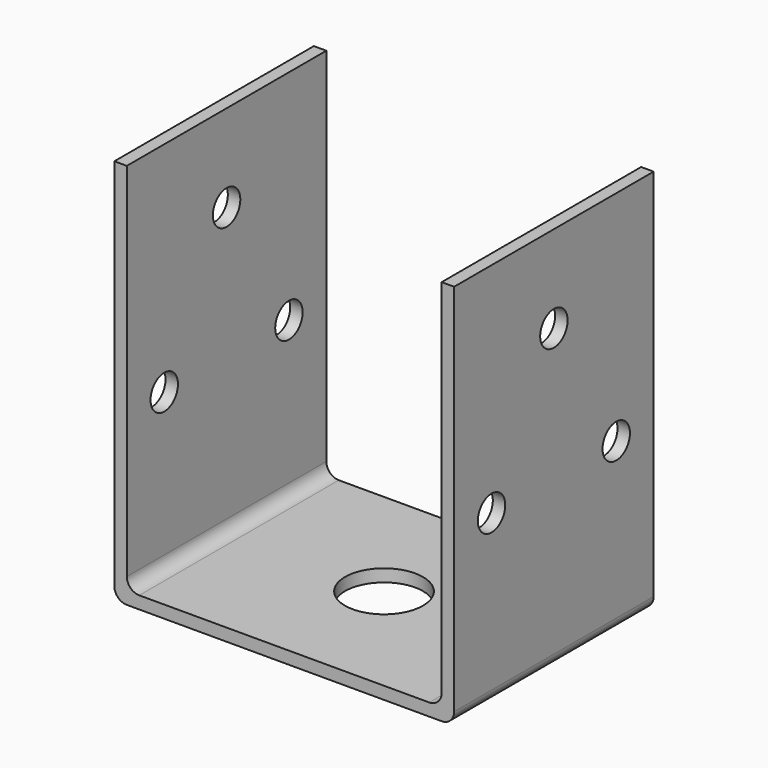
from build123d import *

# Parameters (mm, degrees)
F1_DEPTH = 80
F2_R     = 12.5
F3_DEPTH = 4.001
F4_R     = 5.5
F5_DEPTH = 109.001
F6_R     = 4


with BuildPart() as f1:
    # F0 (on Front) → F1 (new body)
    with BuildSketch(Plane.XZ):
        Polygon((0, 0), (0, 120), (-4, 120), (-4, -4), (105, -4), (105, 120), (101, 120), (101, 0), align=None)
    extrude(amount=F1_DEPTH)

    # F2 (on face) → F3 (cut, through all)
    with BuildSketch(Plane.XY):
        with Locations((50.5, -40)):
            Circle(F2_R)
    extrude(amount=-F3_DEPTH, mode=Mode.SUBTRACT)

    # F4 (on face) → F5 (cut, through all)
    with BuildSketch(Plane(origin=(-4, 0, 0), x_dir=(0, -1, 0), z_dir=(-1, 0, 0))):
        with Locations((65, 50)):
            Circle(F4_R)
        with Locations((40, 92)):
            Circle(F4_R)
        with Locations((15, 50)):
            Circle(F4_R)
    extrude(amount=-F5_DEPTH, mode=Mode.SUBTRACT)

    # F6
    f6_edges = [f1.edges().sort_by_distance(p)[0] for p in [
        (0, -40, 0),
        (101, -40, 0),
        (-4, -40, -4),
        (105, -40, -4),
    ]]
    fillet(f6_edges, radius=F6_R)


solid = f1.part
